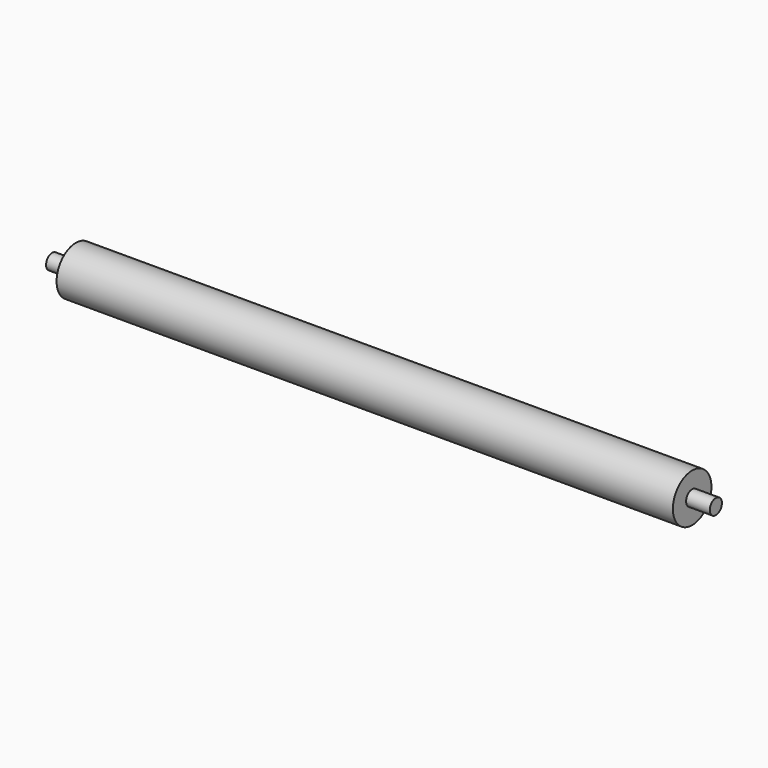
from build123d import *

# Parameters (mm, degrees)
F0_R     = 12.7
F0_R_2   = 11.2
F1_DEPTH = 162.5
F2_R     = 4
F3_DEPTH = 175
F4_R     = 11.2
F5_DEPTH = 10
F6_R     = 11.2
F7_DEPTH = 10


with BuildPart() as f1:
    # F0 (on Right) → F1 (new body, symmetric)
    with BuildSketch(Plane.YZ):
        Circle(F0_R)
        Circle(F0_R_2, mode=Mode.SUBTRACT)
    extrude(amount=F1_DEPTH, both=True)



with BuildPart() as f3:
    # F2 (on Right) → F3 (new body, symmetric)
    with BuildSketch(Plane.YZ):
        Circle(F2_R)
    extrude(amount=F3_DEPTH, both=True)


with BuildPart() as f1_1:
    add(f1.part)

    add(f3.part)  # F5 merges F3
    # F4 (on face) → F5 (join)
    with BuildSketch(Plane.YZ.offset(162.5)):
        Circle(F4_R)
    extrude(amount=-F5_DEPTH)

    # F6 (on face) → F7 (join)
    with BuildSketch(Plane(origin=(-162.5, 0, 0), x_dir=(0, -1, 0), z_dir=(-1, 0, 0))):
        Circle(F6_R)
    extrude(amount=-F7_DEPTH)


solid = f1_1.part
